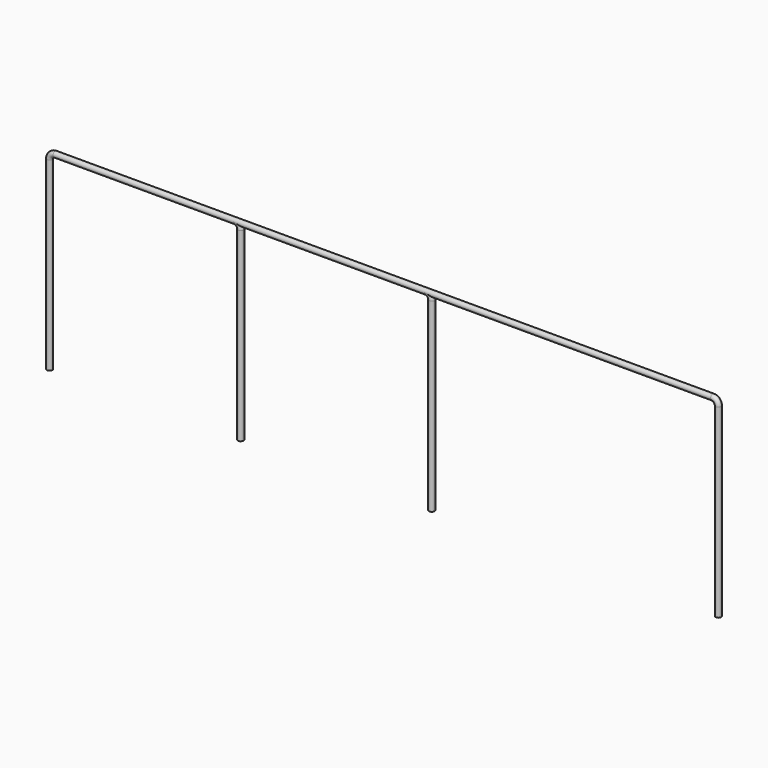
from build123d import *

# Parameters (mm, degrees)
F0_R = 1.4859


with BuildPart() as f4:
    # F4: sweep along a path in F1
    with BuildLine(Plane.XZ) as f4_path:
        Line((0, 0), (0, 98.6282))
        ThreePointArc((0, 98.6282), (0.8704200677, 100.7295799323), (2.9718, 101.6))
        Line((2.9718, 101.6), (98.6282, 101.6))
        ThreePointArc((98.6282, 101.6), (100.7295799323, 100.7295799323), (101.6, 98.6282))
        Line((101.6, 98.6282), (101.6, 0))
    # F0 (on Top) → F4 (sweep)
    with BuildSketch(Plane.XY):
        Circle(F0_R)
    sweep(path=f4_path.line)


with BuildPart() as f5:
    # F5: sweep along a path in F2
    with BuildLine(Plane.XZ) as f5_path:
        Line((0, 0), (0, 98.6282))
        ThreePointArc((0, 98.6282), (0.8704200677, 100.7295799323), (2.9718, 101.6))
        Line((2.9718, 101.6), (200.2282, 101.6))
        ThreePointArc((200.2282, 101.6), (202.3295799323, 100.7295799323), (203.2, 98.6282))
        Line((203.2, 98.6282), (203.2, 0))
    # F0 (on Top) → F5 (sweep)
    with BuildSketch(Plane.XY):
        Circle(F0_R)
    sweep(path=f5_path.line)


with BuildPart() as f6:
    # F6: sweep along a path in F3
    with BuildLine(Plane.XZ) as f6_path:
        Line((0, 0), (0, 98.6282))
        ThreePointArc((0, 98.6282), (0.8704200677, 100.7295799323), (2.9718, 101.6))
        Line((2.9718, 101.6), (352.6282, 101.6))
        ThreePointArc((352.6282, 101.6), (354.7295799323, 100.7295799323), (355.6, 98.6282))
        Line((355.6, 98.6282), (355.6, 0))
    # F0 (on Top) → F6 (sweep)
    with BuildSketch(Plane.XY):
        Circle(F0_R)
    sweep(path=f6_path.line)


solid = Compound([f4.part, f5.part, f6.part])
